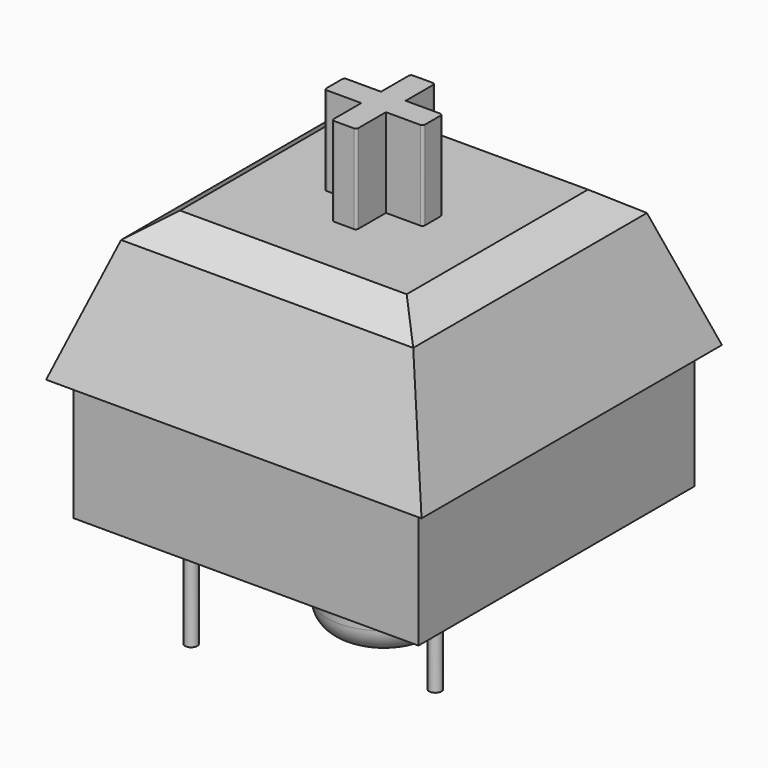
from build123d import *

# Parameters (mm, degrees)
SKETCH083_W             = 14
SKETCH083_H             = 14
PAD016_DEPTH            = 5
SKETCH084_R             = 2.3
PAD017_DEPTH            = 4.4
FILLET001_R             = 1
SKETCH085_W             = 15.24
SKETCH085_H             = 15.24
PAD018_DEPTH            = 5.8
POCKET009_DEPTH         = 15.241
POCKET010_DEPTH         = 15.621
PAD019_DEPTH            = 3.6
FILLET002_R             = 0.1
CHAMFER_SIZE            = 1
SKETCH089_R             = 0.25
PAD020_DEPTH            = 4
BODY004_PLACEMENT_ANGLE = 180


with BuildPart() as part:
    # Sketch083 → Pad016 (new body)
    with BuildSketch(Plane.XY):
        with Locations((7, 7)):
            Rectangle(SKETCH083_W, SKETCH083_H)
    extrude(amount=PAD016_DEPTH)

    # Sketch084 (on Face6 of Pad016) → Pad017 (join)
    with BuildSketch(Plane.XY.offset(5)):
        with Locations((7, 7)):
            Circle(SKETCH084_R)
    extrude(amount=PAD017_DEPTH)

    # Fillet001
    fillet001_edges = [part.edges().sort_by_distance(p)[0] for p in [
        (4.7, 7, 9.4),
    ]]
    fillet(fillet001_edges, radius=FILLET001_R)

    # Sketch085 (on Face9 of Fillet001) → Pad018 (join)
    with BuildSketch(Plane(origin=(0, 0, 0), x_dir=(1, 0, 0), z_dir=(0, 0, -1))):
        with Locations((7, -7)):
            Rectangle(SKETCH085_W, SKETCH085_H)
    extrude(amount=PAD018_DEPTH)

    # Sketch086 (on Face3 of Pad018) → Pocket009 (cut, through all)
    with BuildSketch(Plane.YZ.offset(14.62)):
        Polygon((-0.62, -5.8), (1.4, -5.8), (-0.62, 0), align=None)
        Polygon((12.6, -5.8), (14.62, -5.8), (14.62, 0), align=None)
    extrude(amount=-POCKET009_DEPTH, mode=Mode.SUBTRACT)

    # Sketch087 → Pocket010 (cut, through all)
    with BuildSketch(Plane.XZ.offset(1)):
        Polygon((12.6, -5.8), (14.62, -5.8), (14.62, 0), align=None)
        Polygon((-0.62, -5.8), (1.4, -5.8), (-0.62, 0), align=None)
    extrude(amount=-POCKET010_DEPTH, mode=Mode.SUBTRACT)

    # Sketch088 (on Face10 of Pocket010) → Pad019 (join)
    with BuildSketch(Plane(origin=(0, 0, -5.8), x_dir=(1, 0, 0), z_dir=(0, 0, -1))):
        Polygon((5.100286, -6.651951), (5.100286, -7.651951), (6.600286, -7.651951), (6.600286, -9.151951), (7.600286, -9.151951), (7.600286, -7.651951), (9.100286, -7.651951), (9.100286, -6.651951), (7.600286, -6.651951), (7.600286, -5.151951), (6.600286, -5.151951), (6.600286, -6.651951), align=None)
    extrude(amount=PAD019_DEPTH)

    # Fillet002
    fillet002_edges = [part.edges().sort_by_distance(p)[0] for p in [
        (6.600286, 9.151951, -7.6),
        (7.600286, 9.151951, -7.6),
        (5.100286, 7.651951, -7.6),
        (9.100286, 7.651951, -7.6),
        (9.100286, 6.651951, -7.6),
        (7.600286, 5.151951, -7.6),
        (6.600286, 5.151951, -7.6),
        (5.100286, 6.651951, -7.6),
    ]]
    fillet(fillet002_edges, radius=FILLET002_R)

    # Chamfer
    chamfer_edges = [part.edges().sort_by_distance(p)[0] for p in [
        (12.6, 7, -5.8),
        (7, 12.6, -5.8),
        (1.4, 7, -5.8),
        (7, 1.4, -5.8),
    ]]
    chamfer(chamfer_edges, length=CHAMFER_SIZE)

    # Sketch089 (on Face36 of Chamfer) → Pad020 (join)
    with BuildSketch(Plane.XY.offset(5)):
        with Locations((11.482716, 10)):
            Circle(SKETCH089_R)
        with Locations((3.493098, 12.4)):
            Circle(SKETCH089_R)
    extrude(amount=PAD020_DEPTH)


with BuildPart() as part_1:
    # Body004 placement: moved
    add(part.part.moved(Location((2, 16, 8))).rotate(Axis((2, 16, 8), (1, 0, 0)), BODY004_PLACEMENT_ANGLE))


solid = part_1.part
